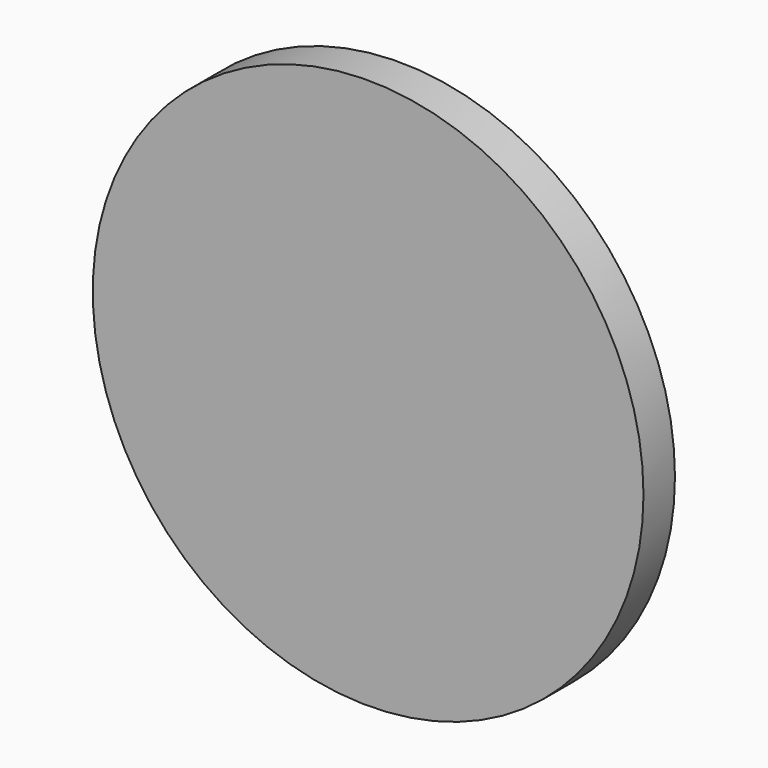
from build123d import *

# Parameters (mm, degrees)
F0_R     = 21
F1_DEPTH = 3
F2_R     = 3.248876
F2_R_2   = 2.201596
F2_R_3   = 3.392524
F2_R_4   = 2.223105
F2_R_5   = 3.218428
F2_R_6   = 2.097756
F3_DEPTH = 25
F4_R     = 3.419132
F5_DEPTH = 25


with BuildPart() as f1:
    # F0 (on Front) → F1 (new body)
    with BuildSketch(Plane.XZ):
        Circle(F0_R)
    extrude(amount=F1_DEPTH)

    # F2 (on Front) → F3 (cut)
    with BuildSketch(Plane.XZ):
        with Locations((0, 28.620865)):
            Circle(F2_R)
        with Locations((0, 28.620865)):
            Circle(F2_R_2, mode=Mode.SUBTRACT)
        with Locations((24.881644, -14.200577)):
            Circle(F2_R_3)
        with Locations((24.881644, -14.200577)):
            Circle(F2_R_4, mode=Mode.SUBTRACT)
        with Locations((-24.80519, -14.200577)):
            Circle(F2_R_5)
        with Locations((-24.80519, -14.200577)):
            Circle(F2_R_6, mode=Mode.SUBTRACT)
    extrude(amount=-F3_DEPTH, mode=Mode.SUBTRACT)

    # F4 (on Front) → F5 (cut)
    with BuildSketch(Plane.XZ):
        with Locations((0, 28.712314)):
            Circle(F4_R)
    extrude(amount=-F5_DEPTH, mode=Mode.SUBTRACT)


solid = f1.part
